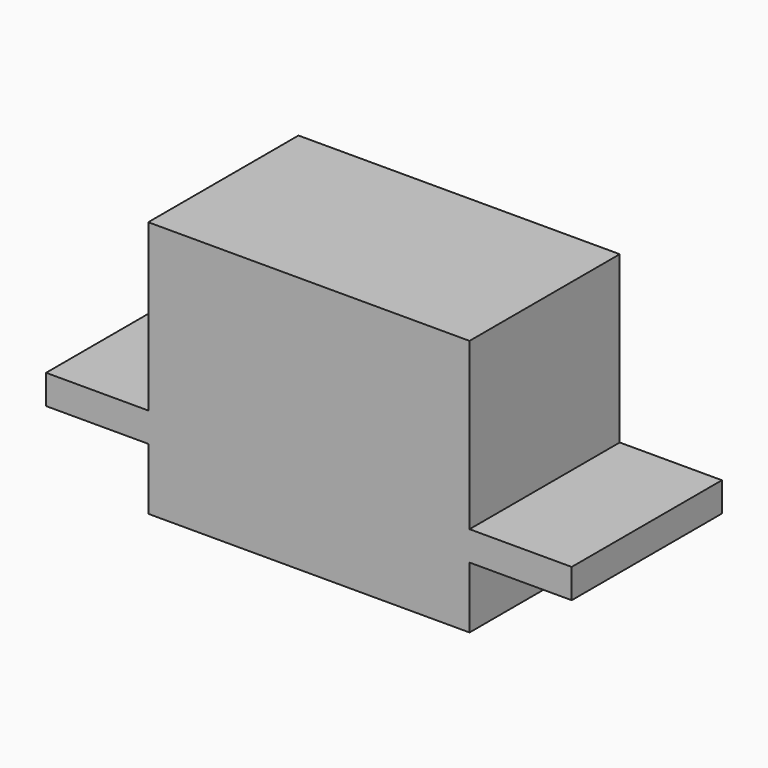
from build123d import *

# Parameters (mm, degrees)
F0_W     = 696.5
F0_H     = 200
F1_DEPTH = 640
F2_W     = 809
F2_H     = 1315
F3_DEPTH = 890
F4_SIZE2 = 150
F4_SIZE  = 600
F5_SIZE  = 245


with BuildPart() as f1:
    # F0 (on Front) → F1 (new body, symmetric)
    with BuildSketch(Plane.XZ):
        Polygon((-1095, 620), (-1095, 420), (-1095, 0), (1095, 0), (1095, 420), (1095, 620), (1095, 1750), (-1095, 1750), align=None)
        Polygon((-1095, 620), (-1095, 420), (-1095, 0), (1095, 0), (1095, 420), (1095, 620), (1095, 1750), (-1095, 1750), align=None)
        with Locations((1443.25, 520)):
            Rectangle(F0_W, F0_H)
        with Locations((-1443.25, 520)):
            Rectangle(F0_W, F0_H)
    extrude(amount=F1_DEPTH, both=True)

    # F2 (on Front) → F3 (join)
    with BuildSketch(Plane.XZ):
        with Locations((0, 657.5)):
            Rectangle(F2_W, F2_H)
    extrude(amount=-F3_DEPTH)

    # F4
    f4_edges = [f1.edges().sort_by_distance(p)[0] for p in [
        (0, 890, 1315),
    ]]
    f4_side = f1.faces().sort_by_distance((0, 890, 657.5))[0]
    chamfer(f4_edges, length=F4_SIZE, length2=F4_SIZE2, reference=f4_side)

    # F5
    f5_edges = [f1.edges().sort_by_distance(p)[0] for p in [
        (0, 890, 0),
    ]]
    chamfer(f5_edges, length=F5_SIZE)


solid = f1.part
